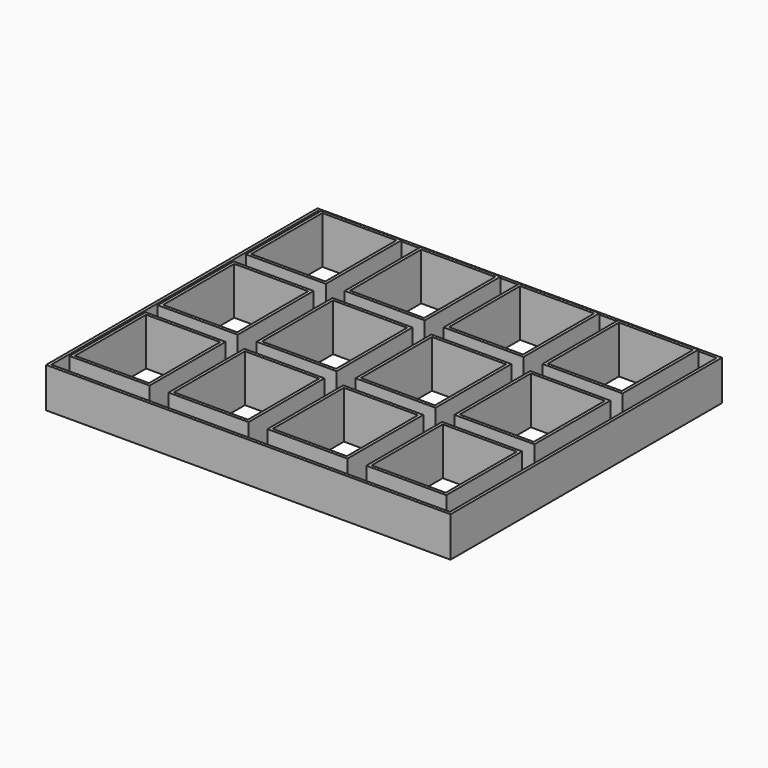
from build123d import *

# Parameters (mm, degrees)
F0_W     = 273
F0_H     = 229
F0_W_2   = 50
F0_H_2   = 60
F1_DEPTH = 2
F2_W     = 273
F2_H     = 229
F2_W_2   = 269
F2_H_2   = 225
F3_DEPTH = 25
F4_W     = 54
F4_H     = 64
F4_W_2   = 50
F4_H_2   = 60
F5_DEPTH = 30


with BuildPart() as f1:
    # F0 (on Top) → F1 (new body)
    with BuildSketch(Plane.XY):
        with Locations((133.5, 111.5)):
            Rectangle(F0_W, F0_H)
        with Locations((33.375, 37.167333)):
            Rectangle(F0_W_2, F0_H_2, mode=Mode.SUBTRACT)
        with Locations((100.125, 37.167333)):
            Rectangle(F0_W_2, F0_H_2, mode=Mode.SUBTRACT)
        with Locations((166.875, 37.167333)):
            Rectangle(F0_W_2, F0_H_2, mode=Mode.SUBTRACT)
        with Locations((233.625, 37.167333)):
            Rectangle(F0_W_2, F0_H_2, mode=Mode.SUBTRACT)
        with Locations((33.375, 111.500333)):
            Rectangle(F0_W_2, F0_H_2, mode=Mode.SUBTRACT)
        with Locations((100.125, 111.500333)):
            Rectangle(F0_W_2, F0_H_2, mode=Mode.SUBTRACT)
        with Locations((33.375, 185.833333)):
            Rectangle(F0_W_2, F0_H_2, mode=Mode.SUBTRACT)
        with Locations((100.125, 185.833333)):
            Rectangle(F0_W_2, F0_H_2, mode=Mode.SUBTRACT)
        with Locations((166.875, 111.500333)):
            Rectangle(F0_W_2, F0_H_2, mode=Mode.SUBTRACT)
        with Locations((233.625, 111.500333)):
            Rectangle(F0_W_2, F0_H_2, mode=Mode.SUBTRACT)
        with Locations((166.875, 185.833333)):
            Rectangle(F0_W_2, F0_H_2, mode=Mode.SUBTRACT)
        with Locations((233.625, 185.833333)):
            Rectangle(F0_W_2, F0_H_2, mode=Mode.SUBTRACT)
    extrude(amount=F1_DEPTH)

    # F2 (on face) → F3 (join)
    with BuildSketch(Plane.XY.offset(2)):
        with Locations((133.5, 111.5)):
            Rectangle(F2_W, F2_H)
        with Locations((133.5, 111.5)):
            Rectangle(F2_W_2, F2_H_2, mode=Mode.SUBTRACT)
    extrude(amount=F3_DEPTH)

    # F4 (on face) → F5 (join)
    with BuildSketch(Plane.XY.offset(2)):
        with Locations((33.375, 185.833333)):
            Rectangle(F4_W, F4_H)
        with Locations((33.375, 185.833333)):
            Rectangle(F4_W_2, F4_H_2, mode=Mode.SUBTRACT)
        with Locations((33.375, 111.500333)):
            Rectangle(F4_W, F4_H)
        with Locations((33.375, 111.500333)):
            Rectangle(F4_W_2, F4_H_2, mode=Mode.SUBTRACT)
        with Locations((33.375, 37.167333)):
            Rectangle(F4_W, F4_H)
        with Locations((33.375, 37.167333)):
            Rectangle(F4_W_2, F4_H_2, mode=Mode.SUBTRACT)
        with Locations((100.125, 185.833333)):
            Rectangle(F4_W, F4_H)
        with Locations((100.125, 185.833333)):
            Rectangle(F4_W_2, F4_H_2, mode=Mode.SUBTRACT)
        with Locations((100.125, 111.500333)):
            Rectangle(F4_W, F4_H)
        with Locations((100.125, 111.500333)):
            Rectangle(F4_W_2, F4_H_2, mode=Mode.SUBTRACT)
        with Locations((100.125, 37.167333)):
            Rectangle(F4_W, F4_H)
        with Locations((100.125, 37.167333)):
            Rectangle(F4_W_2, F4_H_2, mode=Mode.SUBTRACT)
        with Locations((166.875, 185.833333)):
            Rectangle(F4_W, F4_H)
        with Locations((166.875, 185.833333)):
            Rectangle(F4_W_2, F4_H_2, mode=Mode.SUBTRACT)
        with Locations((166.875, 111.500333)):
            Rectangle(F4_W, F4_H)
        with Locations((166.875, 111.500333)):
            Rectangle(F4_W_2, F4_H_2, mode=Mode.SUBTRACT)
        with Locations((166.875, 37.167333)):
            Rectangle(F4_W, F4_H)
        with Locations((166.875, 37.167333)):
            Rectangle(F4_W_2, F4_H_2, mode=Mode.SUBTRACT)
        with Locations((233.625, 185.833333)):
            Rectangle(F4_W, F4_H)
        with Locations((233.625, 185.833333)):
            Rectangle(F4_W_2, F4_H_2, mode=Mode.SUBTRACT)
        with Locations((233.625, 111.500333)):
            Rectangle(F4_W, F4_H)
        with Locations((233.625, 111.500333)):
            Rectangle(F4_W_2, F4_H_2, mode=Mode.SUBTRACT)
        with Locations((233.625, 37.167333)):
            Rectangle(F4_W, F4_H)
        with Locations((233.625, 37.167333)):
            Rectangle(F4_W_2, F4_H_2, mode=Mode.SUBTRACT)
    extrude(amount=F5_DEPTH)


solid = f1.part
